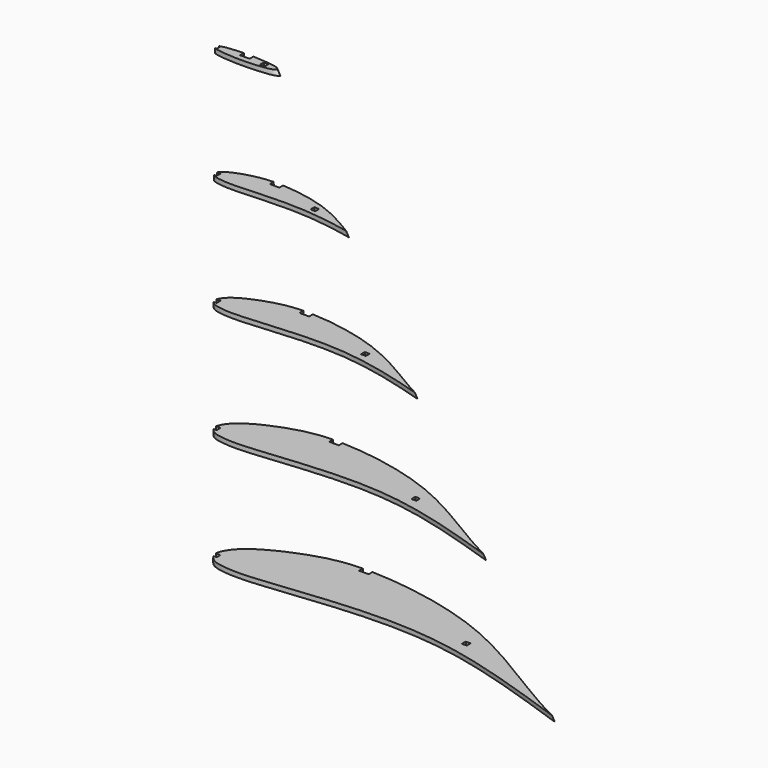
from build123d import *

# Parameters (mm, degrees)
F6_W          = 157.1963280439
F6_H          = 71.25
F6_W_2        = 163.9647632837
F6_W_3        = 251.7599463463
F6_W_4        = 297.863304615
F7_DEPTH      = 50
F7_DEPTH_BACK = 50
F9_DEPTH      = 300
F15_W         = 3.175
F15_H         = 3.175
F16_W         = 3.175
F16_H         = 3.175
F18_W         = 3.175
F18_H         = 3.175
F19_DEPTH     = 10
F20_W         = 3.175
F20_H         = 3.175
F21_DEPTH     = 10
F22_W         = 3.175
F22_H         = 3.175
F23_DEPTH     = 10
F24_W         = 3.175
F24_H         = 3.175
F25_DEPTH     = 10
F26_W         = 3.175
F26_H         = 3.175
F27_DEPTH     = 10


with BuildPart() as f5:
    # F1 (on Top) → F5 section 0
    with BuildSketch(Plane.XY):
        with BuildLine():
            add(Edge.make_bspline(
                [(0, 0), (0.0633270144, 1.2518828677), (0.2486861838, 4.7238568822), (7.9282245972, 17.1926427467), (43.6475012968, 34.0098871207), (80.6219944068, 38.6414228066), (167.3477556279, 24.6956618768), (222.912724272, -17.866974044), (251.8047288, -31.9400936)],
                knots=[0, 0, 0, 0, 0.0545740987, 0.1514027578, 0.3160072785, 0.4812648054, 0.7274870173, 1, 1, 1, 1], degree=3))
            add(Edge.make_bspline(
                [(0, 0), (1.2575964524, -2.038215122), (4.1257297079, -6.6866638056), (17.3516550008, -8.3669968433), (32.1804902612, -8.3493089826), (84.5440689636, -1.6231000426), (157.1335598115, 0.9832416184), (218.6817821087, -20.4210863987), (251.8047288, -31.9400936)],
                knots=[0, 0, 0, 0, 0.0753444738, 0.1718341289, 0.2792645334, 0.4775179696, 0.7188197515, 1, 1, 1, 1], degree=3))
        make_face()
    # F4 (on offset) → F5 section 1
    with BuildSketch(Plane.XY.offset(300)):
        with BuildLine():
            add(Edge.make_bspline(
                [(0, 0), (0.6153015071, 0.5767237131), (2.4055735976, 2.2547504295), (13.8741848243, 3.4761401944), (23.9151937584, 3.7414034544), (40.0742220265, 2.481784675), (41.8053497755, 0.572993077), (42.3250106, 0)],
                knots=[0, 0, 0, 0, 0.1220415968, 0.3550904104, 0.6010424613, 0.8802384147, 1, 1, 1, 1], degree=3))
            add(Edge.make_bspline(
                [(0, 0), (0.517619337, -0.5787346846), (2.0791226801, -2.3246048252), (13.9400824171, -3.4489761221), (23.8811048386, -3.7497597368), (40.0775700701, -2.4809639627), (41.80612277, -0.5728035914), (42.3250106, 0)],
                knots=[0, 0, 0, 0, 0.1173006802, 0.3538612086, 0.6002820456, 0.8800101484, 1, 1, 1, 1], degree=3))
        make_face()
    loft()

    # F6 (on Front) → F7 (cut, two sides)
    with BuildSketch(Plane.XZ) as f7_sk:
        with Locations((78.598164022, 261.375)):
            Rectangle(F6_W, F6_H)
        with Locations((81.9823816419, 187.125)):
            Rectangle(F6_W_2, F6_H)
        with Locations((125.8799731731, 112.875)):
            Rectangle(F6_W_3, F6_H)
        with Locations((148.9316523075, 38.625)):
            Rectangle(F6_W_4, F6_H)
    extrude(amount=F7_DEPTH, mode=Mode.SUBTRACT)
    extrude(f7_sk.sketch, amount=-F7_DEPTH_BACK, mode=Mode.SUBTRACT)

    # F8 (on Top) → F9 (cut)
    with BuildSketch(Plane.XY):
        Polygon((3.175, -1.588), (3.175, 0), (3.175, 1.588), (0, 1.588), (0, -1.588), align=None)
    extrude(amount=F9_DEPTH, mode=Mode.SUBTRACT)

    # F14: sweep along a path in F13
    with BuildLine(Plane(origin=(68.5498078123, 0, 12.2467764452), x_dir=(0, 1, 0), z_dir=(0.9844133092, 0, 0.175870511))) as f14_path:
        Line((0.3233146149, 292.3093591483), (33.0495412947, -12.4406855642))
    # F10 (on face) → F14 (sweep, cut)
    with BuildSketch(Plane(origin=(0, 0, 0), x_dir=(1, 0, 0), z_dir=(0, 0, -1))):
        Polygon((77.0877575394, -33.0495412947), (73.9127575394, -33.0495412947), (70.7377575394, -33.0495412947), (70.7377575394, -36.2245412947), (70.7377575394, -37.3646095395), (77.0877575394, -37.3646095395), (77.0877575394, -36.2245412947), align=None)
    sweep(path=f14_path.line, mode=Mode.SUBTRACT)

    # F15 (on face) → F17 section 0
    with BuildSketch(Plane(origin=(0, 0, 0), x_dir=(1, 0, 0), z_dir=(0, 0, -1))):
        with Locations((166.0011756659, -3.5875000566)):
            Rectangle(F15_W, F15_H)
    # F16 (on face) → F17 section 1
    with BuildSketch(Plane.XY.offset(300)):
        with Locations((33.4428790957, 0.1114561931)):
            Rectangle(F16_W, F16_H)
    loft(mode=Mode.SUBTRACT)

    # F18 (on face) → F19 (cut)
    with BuildSketch(Plane.XY.offset(300)):
        Polygon((17.1412114538, 4.4932267629), (17.1412114538, 3.4983146149), (17.1412114538, 0.3233146149), (23.4912114538, 0.3233146149), (23.4912114538, 3.5102024926), (23.4912114538, 4.4932267629), align=None)
        with Locations((33.4428790957, 0.1114561931)):
            Rectangle(F18_W, F18_H)
    extrude(amount=-F19_DEPTH, mode=Mode.SUBTRACT)

    # F20 (on face) → F21 (cut)
    with BuildSketch(Plane.XY.offset(225.75)):
        with Locations((66.2510574968, 0.9717770493)):
            Rectangle(F20_W, F20_H)
        Polygon((30.40635661, 12.8779532388), (30.40635661, 11.5921407603), (30.40635661, 8.4230557181), (36.75635661, 8.4230557181), (36.75635661, 11.5021033818), (36.75635661, 12.8779532388), align=None)
    extrude(amount=-F21_DEPTH, mode=Mode.SUBTRACT)

    # F22 (on face) → F23 (cut)
    with BuildSketch(Plane.XY.offset(151.5)):
        with Locations((99.0592358979, 1.8320979055)):
            Rectangle(F22_W, F22_H)
        Polygon((43.6715017662, 21.7942204326), (43.6715017662, 19.6853389659), (43.6715017662, 16.5227968214), (50.0215017662, 16.5227968214), (50.0215017692, 19.6223687201), (50.0215017713, 21.7942204326), align=None)
    extrude(amount=-F23_DEPTH, mode=Mode.SUBTRACT)

    # F24 (on face) → F25 (cut)
    with BuildSketch(Plane.XY.offset(77.25)):
        Polygon((56.9366469224, 29.5055899769), (56.9366469224, 27.7783792595), (56.9366469224, 24.6225379247), (63.2866469224, 24.6225379247), (63.2866469256, 27.7405501263), (63.2866469274, 29.5055899769), align=None)
        with Locations((131.867414299, 2.6924187618)):
            Rectangle(F24_W, F24_H)
    extrude(amount=-F25_DEPTH, mode=Mode.SUBTRACT)

    # F26 (on face) → F27 (cut)
    with BuildSketch(Plane.XY.offset(3)):
        with Locations((164.6755927002, 3.552739618)):
            Rectangle(F26_W, F26_H)
        Polygon((70.2017920786, 38.4513922036), (70.2017920786, 35.8713558808), (70.2017920786, 32.7222790279), (76.5517920786, 32.7222790279), (76.5517920813, 35.8531359577), (76.5517920836, 38.4513922036), align=None)
    extrude(amount=-F27_DEPTH, mode=Mode.SUBTRACT)


solid = f5.part
